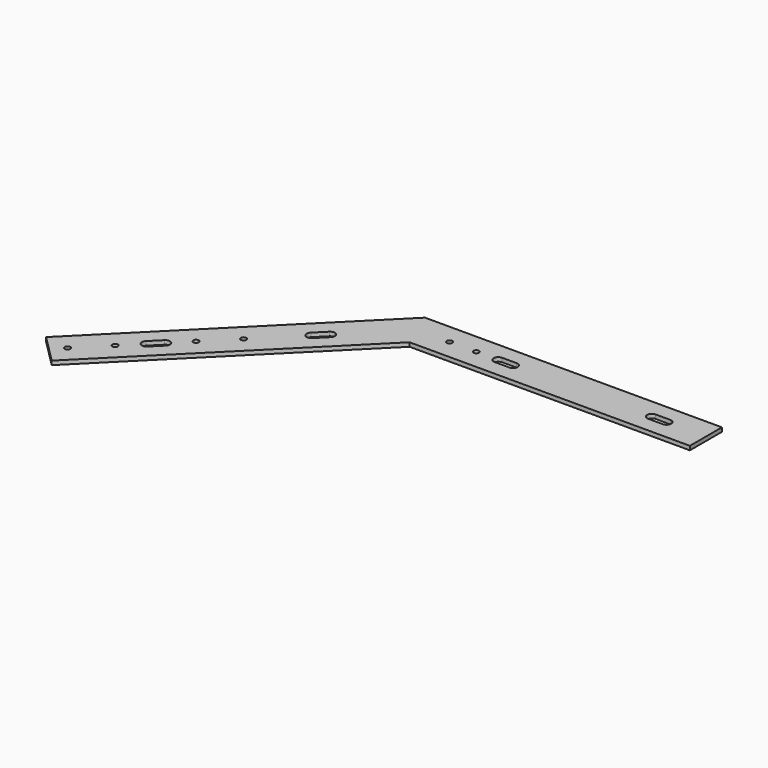
from build123d import *

# Parameters (mm, degrees)
F0_R     = 2.05
F1_DEPTH = 3


with BuildPart() as f1:
    # F0 (on Top) → F1 (new body)
    with BuildSketch(Plane.XY):
        Polygon((-210, 0), (0, 0), (0, 30), (-222.426407, 30), (-380.129892, -127.703485), (-358.916688, -148.916688), align=None)
        with Locations((-361.745115, -130.531912)):
            Circle(F0_R, mode=Mode.SUBTRACT)
        with Locations((-341.946125, -110.732922)):
            Circle(F0_R, mode=Mode.SUBTRACT)
        with BuildLine():
            ThreePointArc((-323.561349, -87.398398), (-318.611602, -87.398398), (-318.611602, -92.348146))
            Line((-318.611602, -92.348146), (-326.389776, -100.12632))
            ThreePointArc((-326.389776, -100.12632), (-331.339524, -100.12632), (-331.339524, -95.176573))
            Line((-331.339524, -95.176573), (-323.561349, -87.398398))
        make_face(mode=Mode.SUBTRACT)
        with Locations((-308.287843, -77.074639)):
            Circle(F0_R, mode=Mode.SUBTRACT)
        with Locations((-288.488853, -57.275649)):
            Circle(F0_R, mode=Mode.SUBTRACT)
        with BuildLine():
            ThreePointArc((-254.971991, -18.80904), (-250.022244, -18.80904), (-250.022244, -23.758788))
            Line((-250.022244, -23.758788), (-257.800418, -31.536962))
            ThreePointArc((-257.800418, -31.536962), (-262.750166, -31.536962), (-262.750166, -26.587215))
            Line((-262.750166, -26.587215), (-254.971991, -18.80904))
        make_face(mode=Mode.SUBTRACT)
        with Locations((-192, 15)):
            Circle(F0_R, mode=Mode.SUBTRACT)
        with Locations((-172, 15)):
            Circle(F0_R, mode=Mode.SUBTRACT)
        with BuildLine():
            ThreePointArc((-144.5, 18.5), (-141, 15), (-144.5, 11.5))
            Line((-144.5, 11.5), (-155.5, 11.5))
            ThreePointArc((-155.5, 11.5), (-159, 15), (-155.5, 18.5))
            Line((-155.5, 18.5), (-144.5, 18.5))
        make_face(mode=Mode.SUBTRACT)
        with BuildLine():
            ThreePointArc((-29.5, 18.5), (-26, 15), (-29.5, 11.5))
            Line((-29.5, 11.5), (-40.5, 11.5))
            ThreePointArc((-40.5, 11.5), (-44, 15), (-40.5, 18.5))
            Line((-40.5, 18.5), (-29.5, 18.5))
        make_face(mode=Mode.SUBTRACT)
    extrude(amount=F1_DEPTH)


solid = f1.part
